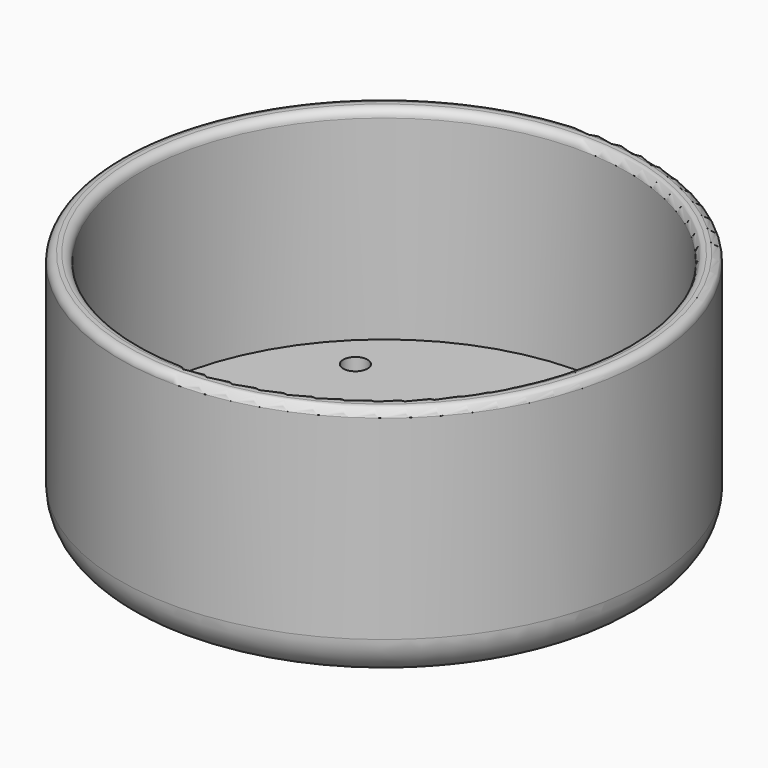
from build123d import *

# Parameters (mm, degrees)
F0_R     = 32.5
F1_DEPTH = 5
F2_R     = 32.5
F2_R_2   = 30
F3_DEPTH = 25
F4_R     = 2
F5_DEPTH = 25
F6_R     = 1.5
F7_DEPTH = 25
F8_R     = 5
F9_R     = 1


with BuildPart() as f1:
    # F0 (on Top) → F1 (new body)
    with BuildSketch(Plane.XY):
        Circle(F0_R)
    extrude(amount=F1_DEPTH)

    # F2 (on face) → F3 (join)
    with BuildSketch(Plane.XY.offset(5)):
        Circle(F2_R)
        Circle(F2_R_2, mode=Mode.SUBTRACT)
    extrude(amount=F3_DEPTH)

    # F4 (on face) → F5 (cut)
    with BuildSketch(Plane(origin=(0, 0, 0), x_dir=(1, 0, 0), z_dir=(0, 0, -1))):
        Circle(F4_R)
    extrude(amount=-F5_DEPTH, mode=Mode.SUBTRACT)

    # F6 (on face) → F7 (cut)
    with BuildSketch(Plane(origin=(0, 0, 0), x_dir=(1, 0, 0), z_dir=(0, 0, -1))):
        with Locations((0, 25)):
            Circle(F6_R)
        with Locations((17.67767, 17.67767)):
            Circle(F6_R)
        with BuildLine():
            ThreePointArc((23.5, 0), (25, -1.5), (26.5, 0))
            ThreePointArc((26.5, 0), (25, 1.5), (23.5, 0))
        make_face()
        with Locations((17.67767, -17.67767)):
            Circle(F6_R)
        with Locations((0, -25)):
            Circle(F6_R)
        with Locations((-17.67767, -17.67767)):
            Circle(F6_R)
        with Locations((-17.67767, 17.67767)):
            Circle(F6_R)
        with Locations((-25, 0)):
            Circle(F6_R)
    extrude(amount=-F7_DEPTH, mode=Mode.SUBTRACT)

    # F8
    f8_edges = [f1.edges().sort_by_distance(p)[0] for p in [
        (-32.5, 0, 0),
    ]]
    fillet(f8_edges, radius=F8_R)

    # F9
    f9_edges = [f1.edges().sort_by_distance(p)[0] for p in [
        (-30, 0, 30),
        (-32.5, 0, 30),
    ]]
    fillet(f9_edges, radius=F9_R)


solid = f1.part
